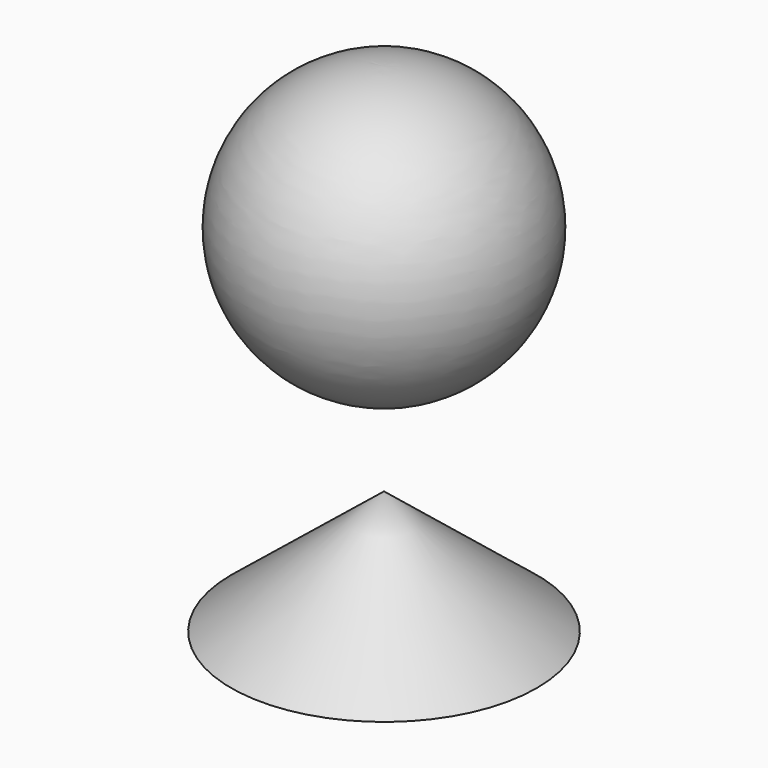
from build123d import *


with BuildPart() as f1:
    # F0 (on Front) → F1 (revolve)
    with BuildSketch(Plane.XZ):
        with BuildLine():
            Line((0, 31.139021), (0, 94.132106))
            ThreePointArc((0, 94.132106), (-31.496542, 62.635563), (0, 31.139021))
        make_face()
        Polygon((0, 0), (0, 10.950274), (-34.018852, -16.498413), align=None)
    revolve(axis=Axis((0, 0, 62.635563), (0, 0, 1)))


solid = f1.part
